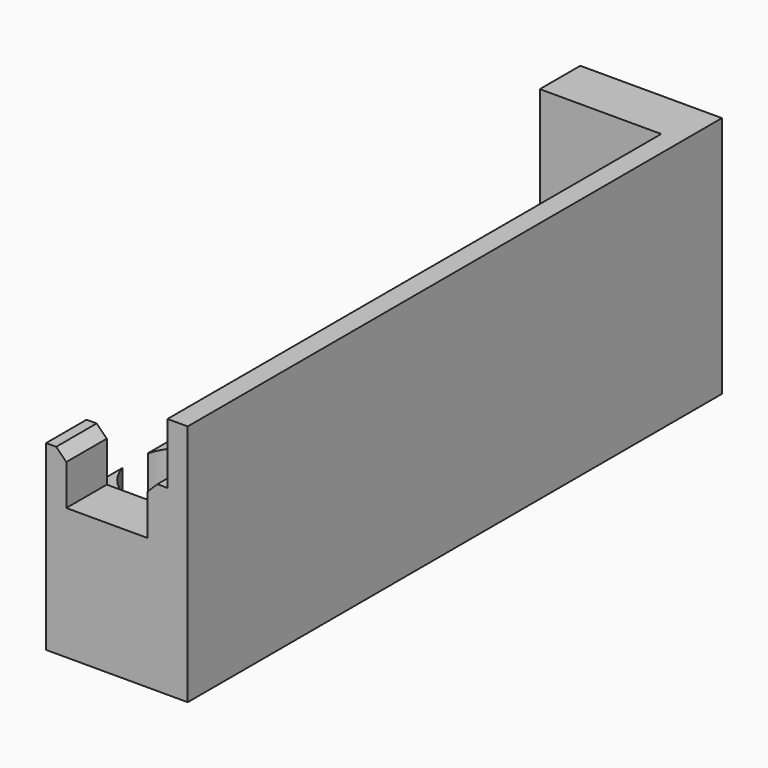
from build123d import *

# Parameters (mm, degrees)
F0_W      = 70
F0_H      = 330
F1_DEPTH  = 120
F2_W      = 60
F2_H      = 280
F3_DEPTH  = 60
F4_R      = 27.5
F5_DEPTH  = 30
F6_W      = 60
F6_H      = 55
F7_DEPTH  = 25
F8_W      = 10
F8_H      = 25
F9_DEPTH  = 25
F10_DEPTH = 25
F11_SIZE  = 5
F12_SIZE  = 5


with BuildPart() as f1:
    # F0 (on Top) → F1 (new body)
    with BuildSketch(Plane.XY):
        with Locations((-0.983767, 35.842364)):
            Rectangle(F0_W, F0_H)
    extrude(amount=F1_DEPTH)

    # F2 (on face) → F3 (cut)
    with BuildSketch(Plane.XY.offset(120)):
        with Locations((-5.983767, 35.842364)):
            Rectangle(F2_W, F2_H)
    extrude(amount=-F3_DEPTH, mode=Mode.SUBTRACT)

    # F4 (on face) → F5 (cut)
    with BuildSketch(Plane.XY.offset(60)):
        with Locations((-9.620236, -74.157636)):
            Circle(F4_R)
    extrude(amount=-F5_DEPTH, mode=Mode.SUBTRACT)

    # F6 (on face) → F7 (cut, through all)
    with BuildSketch(Plane.XZ.offset(129.157636)):
        with Locations((-5.983767, 92.5)):
            Rectangle(F6_W, F6_H)
    extrude(amount=-F7_DEPTH, mode=Mode.SUBTRACT)

    # F8 (on face) → F9 (join)
    with BuildSketch(Plane.XY.offset(65)):
        with Locations((-30.983767, -116.657636)):
            Rectangle(F8_W, F8_H)
    extrude(amount=F9_DEPTH)

    # F8 (on face) → F10 (join)
    with BuildSketch(Plane.XY.offset(65)):
        with Locations((19.016233, -116.657636)):
            Rectangle(F8_W, F8_H)
    extrude(amount=F10_DEPTH)

    # F11
    f11_edges = [f1.edges().sort_by_distance(p)[0] for p in [
        (14.016233, -116.657636, 90),
    ]]
    chamfer(f11_edges, length=F11_SIZE)

    # F12
    f12_edges = [f1.edges().sort_by_distance(p)[0] for p in [
        (-25.983767, -116.657636, 90),
    ]]
    chamfer(f12_edges, length=F12_SIZE)


solid = f1.part
